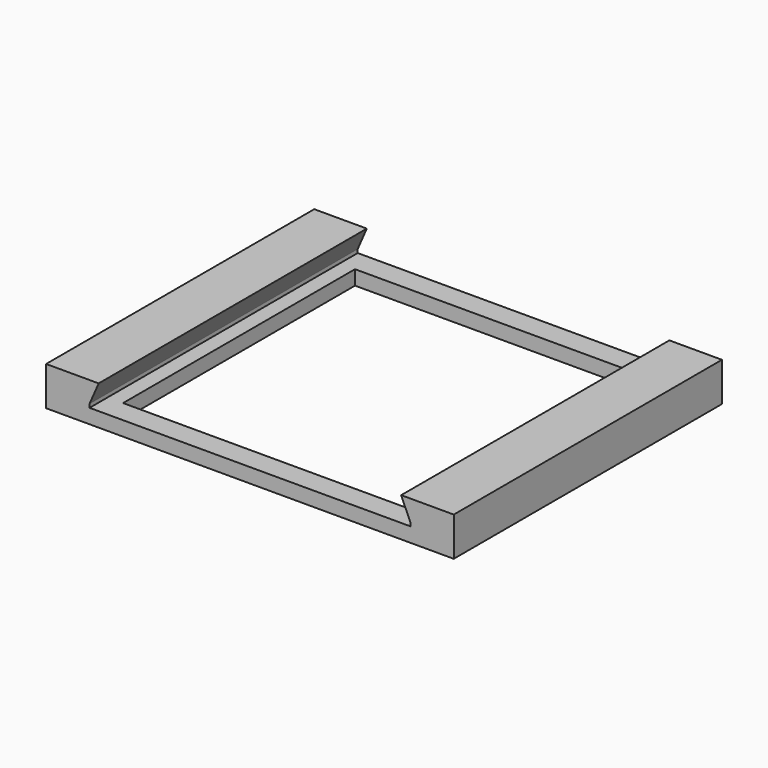
from build123d import *

# Parameters (mm, degrees)
F0_W     = 45
F0_H     = 37
F1_DEPTH = 8
F3_DEPTH = 37.001
F4_W     = 45.155443
F4_H     = 1.4
F4_W_2   = 45.195
F4_H_2   = 2.4
F5_DEPTH = 37.001
F6_W     = 32
F6_H     = 32
F7_DEPTH = 1.601


with BuildPart() as f1:
    # F0 (on Top) → F1 (new body)
    with BuildSketch(Plane.XY):
        Rectangle(F0_W, F0_H)
    extrude(amount=F1_DEPTH)

    # F2 (on face) → F3 (cut, through all)
    with BuildSketch(Plane.XZ.offset(18.5)):
        Polygon((15.7, 8), (-15.7, 8), (-17.7, 3.392867), (-17.7, 3), (17.7, 3), (17.7, 3.392867), align=None)
    extrude(amount=-F3_DEPTH, mode=Mode.SUBTRACT)

    # F4 (on face) → F5 (cut, through all)
    with BuildSketch(Plane.XZ.offset(18.5)):
        with Locations((0.003687, 0.7)):
            Rectangle(F4_W, F4_H)
        with Locations((0.023347, 6.901389)):
            Rectangle(F4_W_2, F4_H_2)
    extrude(amount=-F5_DEPTH, mode=Mode.SUBTRACT)

    # F6 (on face) → F7 (cut, through all)
    with BuildSketch(Plane.XY.offset(3)):
        Rectangle(F6_W, F6_H)
    extrude(amount=-F7_DEPTH, mode=Mode.SUBTRACT)


solid = f1.part
